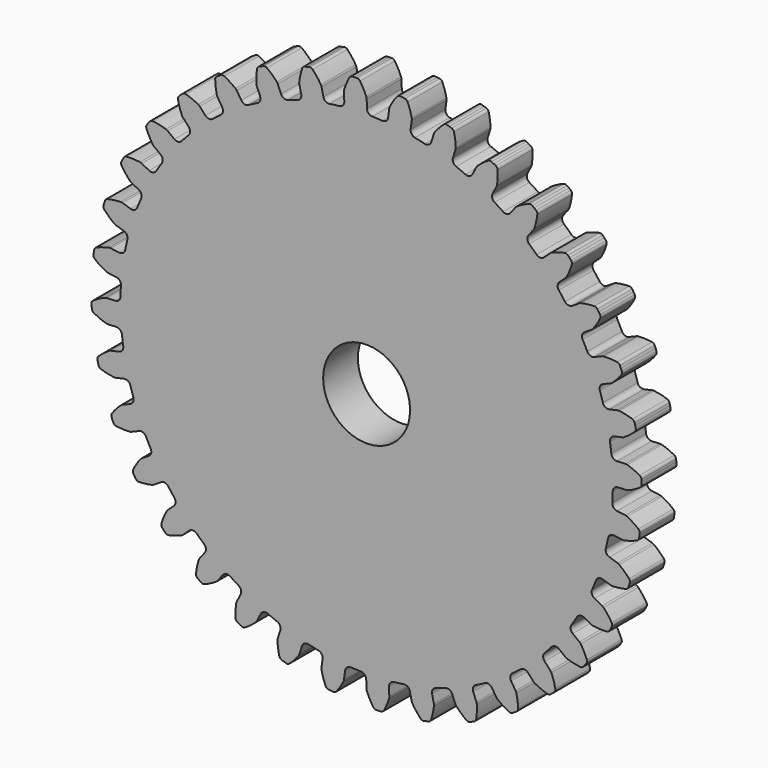
from build123d import *

# Parameters (mm, degrees)
F0_R     = 35.983333
F1_DEPTH = 6.35
F3_DEPTH = 6.35
F5_D     = 12.7


with BuildPart() as f1:
    # F0 (on Front) → F1 (new body)
    with BuildSketch(Plane.XZ):
        Circle(F0_R)
    extrude(amount=F1_DEPTH)

    # F2 (on face) → F3 (join)
    with BuildSketch(Plane.XZ.offset(6.35)):
        with BuildLine():
            ThreePointArc((0.005729, 37.968786), (-0.011248, 38.100575), (-0.050143, 38.227633))
            ThreePointArc((-0.050143, 38.227633), (-0.46345, 39.121158), (-0.966779, 39.967249))
            ThreePointArc((-0.966779, 39.967249), (-1.156041, 40.136562), (-1.403606, 40.193113))
            Line((-1.403606, 40.193113), (-1.75444, 40.183272))
            Line((-1.75444, 40.183272), (-2.104795, 40.162499))
            ThreePointArc((-2.104795, 40.162499), (-2.34649, 40.084585), (-2.520275, 39.899422))
            ThreePointArc((-2.520275, 39.899422), (-2.947947, 39.012682), (-3.281805, 38.086535))
            ThreePointArc((-3.281805, 38.086535), (-3.309479, 37.956571), (-3.314905, 37.823804))
            Line((-3.314905, 37.823804), (-3.260672, 36.581658))
            ThreePointArc((-3.260672, 36.581658), (-3.449386, 36.034993), (-3.960654, 35.764696))
            Line((-3.960654, 35.764696), (-5.430887, 35.571136))
            ThreePointArc((-5.430887, 35.571136), (-5.994692, 35.699897), (-6.318463, 36.179092))
            Line((-6.318463, 36.179092), (-6.587569, 37.39295))
            ThreePointArc((-6.587569, 37.39295), (-6.627172, 37.519788), (-6.68754, 37.638162))
            ThreePointArc((-6.68754, 37.638162), (-7.249727, 38.446342), (-7.892331, 39.192177))
            ThreePointArc((-7.892331, 39.192177), (-8.108119, 39.326053), (-8.361743, 39.338756))
            Line((-8.361743, 39.338756), (-8.705538, 39.268142))
            Line((-8.705538, 39.268142), (-9.046964, 39.186846))
            ThreePointArc((-9.046964, 39.186846), (-9.271457, 39.068147), (-9.410449, 38.855619))
            ThreePointArc((-9.410449, 38.855619), (-9.677642, 37.908086), (-9.845605, 36.938036))
            ThreePointArc((-9.845605, 36.938036), (-9.85029, 36.80524), (-9.832579, 36.673548))
            Line((-9.832579, 36.673548), (-9.563473, 35.459691))
            ThreePointArc((-9.563473, 35.459691), (-9.654393, 34.888561), (-10.110957, 34.53359))
            Line((-10.110957, 34.53359), (-11.525242, 34.087667))
            ThreePointArc((-11.525242, 34.087667), (-12.102841, 34.116568), (-12.504905, 34.532261))
            Line((-12.504905, 34.532261), (-12.980706, 35.680947))
            ThreePointArc((-12.980706, 35.680947), (-13.041733, 35.798982), (-13.12174, 35.905074))
            ThreePointArc((-13.12174, 35.905074), (-13.815725, 36.603354), (-14.578079, 37.226271))
            ThreePointArc((-14.578079, 37.226271), (-14.813835, 37.320642), (-15.065813, 37.28911))
            Line((-15.065813, 37.28911), (-15.392122, 37.15987))
            Line((-15.392122, 37.15987), (-15.714244, 37.020521))
            ThreePointArc((-15.714244, 37.020521), (-15.914715, 36.864642), (-16.01469, 36.631207))
            ThreePointArc((-16.01469, 36.631207), (-16.113287, 35.651673), (-16.11025, 34.667193))
            ThreePointArc((-16.11025, 34.667193), (-16.091805, 34.535601), (-16.051494, 34.408985))
            Line((-16.051494, 34.408985), (-15.575693, 33.260299))
            ThreePointArc((-15.575693, 33.260299), (-15.566056, 32.682058), (-15.954044, 32.253198))
            Line((-15.954044, 32.253198), (-17.269409, 31.568462))
            ThreePointArc((-17.269409, 31.568462), (-17.843252, 31.496625), (-18.311391, 31.836184))
            Line((-18.311391, 31.836184), (-18.979432, 32.884798))
            ThreePointArc((-18.979432, 32.884798), (-19.060028, 32.990442), (-19.157242, 33.081029))
            ThreePointArc((-19.157242, 33.081029), (-19.961939, 33.648191), (-20.82088, 34.129263))
            ThreePointArc((-20.82088, 34.129263), (-21.069441, 34.181262), (-21.312115, 34.106454))
            Line((-21.312115, 34.106454), (-21.611025, 33.922514))
            Line((-21.611025, 33.922514), (-21.904056, 33.729346))
            ThreePointArc((-21.904056, 33.729346), (-22.074413, 33.541024), (-22.132333, 33.293775))
            ThreePointArc((-22.132333, 33.293775), (-22.059338, 32.312001), (-21.885394, 31.343004))
            ThreePointArc((-21.885394, 31.343004), (-21.844378, 31.216615), (-21.782694, 31.098923))
            Line((-21.782694, 31.098923), (-21.114653, 30.050309))
            ThreePointArc((-21.114653, 30.050309), (-21.004752, 29.482527), (-21.312375, 28.992809))
            Line((-21.312375, 28.992809), (-22.488854, 28.090064))
            ThreePointArc((-22.488854, 28.090064), (-23.041504, 27.919672), (-23.561495, 28.172781))
            Line((-23.561495, 28.172781), (-24.401477, 29.08946))
            ThreePointArc((-24.401477, 29.08946), (-24.499194, 29.179504), (-24.610661, 29.251834))
            ThreePointArc((-24.610661, 29.251834), (-25.501619, 29.670646), (-26.431048, 29.995255))
            ThreePointArc((-26.431048, 29.995255), (-26.684863, 30.003301), (-26.91086, 29.88749))
            Line((-26.91086, 29.88749), (-27.173288, 29.65444))
            Line((-27.173288, 29.65444), (-27.428323, 29.413322))
            ThreePointArc((-27.428323, 29.413322), (-27.563391, 29.198279), (-27.577497, 28.944729))
            ThreePointArc((-27.577497, 28.944729), (-27.335127, 27.990545), (-26.995562, 27.066475))
            ThreePointArc((-26.995562, 27.066475), (-26.933222, 26.949128), (-26.852037, 26.843935))
            Line((-26.852037, 26.843935), (-26.012056, 25.927256))
            ThreePointArc((-26.012056, 25.927256), (-25.80523, 25.387184), (-26.02314, 24.851488))
            Line((-26.02314, 24.851488), (-27.024986, 23.758165))
            ThreePointArc((-27.024986, 23.758165), (-27.539652, 23.494394), (-28.095695, 23.653363))
            Line((-28.095695, 23.653363), (-29.082095, 24.410254))
            ThreePointArc((-29.082095, 24.410254), (-29.193964, 24.481961), (-29.316297, 24.533837))
            ThreePointArc((-29.316297, 24.533837), (-30.266446, 24.791572), (-31.238122, 24.949857))
            ThreePointArc((-31.238122, 24.949857), (-31.489479, 24.913706), (-31.691932, 24.76041))
            Line((-31.691932, 24.76041), (-31.909904, 24.48533))
            Line((-31.909904, 24.48533), (-32.119195, 24.20359))
            ThreePointArc((-32.119195, 24.20359), (-32.214869, 23.968359), (-32.184732, 23.716211))
            ThreePointArc((-32.184732, 23.716211), (-31.780352, 22.81861), (-31.285482, 21.967544))
            ThreePointArc((-31.285482, 21.967544), (-31.203712, 21.862806), (-31.105495, 21.773308))
            Line((-31.105495, 21.773308), (-30.119095, 21.016417))
            ThreePointArc((-30.119095, 21.016417), (-29.821629, 20.520464), (-29.943206, 19.955067))
            Line((-29.943206, 19.955067), (-30.739978, 18.704385))
            ThreePointArc((-30.739978, 18.704385), (-31.201021, 18.355251), (-31.776222, 18.415249))
            Line((-31.776222, 18.415249), (-32.879069, 18.989354))
            ThreePointArc((-32.879069, 18.989354), (-33.00169, 19.040547), (-33.131173, 19.070391))
            ThreePointArc((-33.131173, 19.070391), (-34.111642, 19.159219), (-35.096042, 19.146369))
            ThreePointArc((-35.096042, 19.146369), (-35.337302, 19.06712), (-35.51006, 18.880998))
            Line((-35.51006, 18.880998), (-35.676954, 18.572247))
            Line((-35.676954, 18.572247), (-35.834142, 18.258443))
            ThreePointArc((-35.834142, 18.258443), (-35.887514, 18.010173), (-35.814051, 17.767089))
            ThreePointArc((-35.814051, 17.767089), (-35.259948, 16.953344), (-34.62481, 16.201141))
            ThreePointArc((-34.62481, 16.201141), (-34.526094, 16.112193), (-34.413828, 16.04111))
            Line((-34.413828, 16.04111), (-33.310981, 15.467005))
            ThreePointArc((-33.310981, 15.467005), (-32.931912, 15.030241), (-32.953462, 14.452321))
            Line((-32.953462, 14.452321), (-33.520951, 13.082282))
            ThreePointArc((-33.520951, 13.082282), (-33.914364, 12.658393), (-34.491244, 12.617597))
            Line((-34.491244, 12.617597), (-35.677029, 12.991473))
            ThreePointArc((-35.677029, 12.991473), (-35.806676, 13.020595), (-35.939374, 13.027501))
            ThreePointArc((-35.939374, 13.027501), (-36.920373, 12.944723), (-37.887587, 12.761129))
            ThreePointArc((-37.887587, 12.761129), (-38.11142, 12.64119), (-38.249233, 12.427896))
            Line((-38.249233, 12.427896), (-38.359977, 12.094854))
            Line((-38.359977, 12.094854), (-38.460286, 11.758523))
            ThreePointArc((-38.460286, 11.758523), (-38.469736, 11.504756), (-38.355177, 11.278122))
            ThreePointArc((-38.355177, 11.278122), (-37.668187, 10.572959), (-36.91208, 9.942474))
            ThreePointArc((-36.91208, 9.942474), (-36.799418, 9.872019), (-36.676514, 9.821511))
            Line((-36.676514, 9.821511), (-35.490729, 9.447635))
            ThreePointArc((-35.490729, 9.447635), (-35.041576, 9.083331), (-34.962445, 8.510449))
            Line((-34.962445, 8.510449), (-35.283407, 7.062681))
            ThreePointArc((-35.283407, 7.062681), (-35.597235, 6.576916), (-36.158267, 6.436565))
            Line((-36.158267, 6.436565), (-37.39096, 6.598852))
            ThreePointArc((-37.39096, 6.598852), (-37.523695, 6.605019), (-37.655576, 6.588777))
            ThreePointArc((-37.655576, 6.588777), (-38.607297, 6.336908), (-39.527936, 5.988149))
            ThreePointArc((-39.527936, 5.988149), (-39.727541, 5.831163), (-39.826223, 5.597179))
            Line((-39.826223, 5.597179), (-39.877453, 5.249966))
            Line((-39.877453, 5.249966), (-39.917834, 4.901326))
            ThreePointArc((-39.917834, 4.901326), (-39.883074, 4.649773), (-39.730901, 4.446475))
            ThreePointArc((-39.730901, 4.446475), (-38.931898, 3.87132), (-38.077795, 3.38171))
            ThreePointArc((-38.077795, 3.38171), (-37.95461, 3.331889), (-37.824803, 3.303491))
            Line((-37.824803, 3.303491), (-36.59211, 3.141204))
            ThreePointArc((-36.59211, 3.141204), (-36.08652, 2.860429), (-35.90911, 2.309992))
            Line((-35.90911, 2.309992), (-35.973795, 0.828484))
            ThreePointArc((-35.973795, 0.828484), (-36.198503, 0.295603), (-36.72664, 0.059962))
            Line((-36.72664, 0.059962), (-37.968786, 0.005729))
            ThreePointArc((-37.968786, 0.005729), (-38.100575, -0.011248), (-38.227633, -0.050143))
            ThreePointArc((-38.227633, -0.050143), (-39.121158, -0.46345), (-39.967249, -0.966779))
            ThreePointArc((-39.967249, -0.966779), (-40.136562, -1.156041), (-40.193113, -1.403606))
            Line((-40.193113, -1.403606), (-40.183272, -1.75444))
            Line((-40.183272, -1.75444), (-40.162499, -2.104795))
            ThreePointArc((-40.162499, -2.104795), (-40.084585, -2.34649), (-39.899422, -2.520275))
            ThreePointArc((-39.899422, -2.520275), (-39.012682, -2.947947), (-38.086535, -3.281805))
            ThreePointArc((-38.086535, -3.281805), (-37.956571, -3.309479), (-37.823804, -3.314905))
            Line((-37.823804, -3.314905), (-36.581658, -3.260672))
            ThreePointArc((-36.581658, -3.260672), (-36.034993, -3.449386), (-35.764696, -3.960654))
            Line((-35.764696, -3.960654), (-35.571136, -5.430887))
            ThreePointArc((-35.571136, -5.430887), (-35.699897, -5.994692), (-36.179092, -6.318463))
            Line((-36.179092, -6.318463), (-37.39295, -6.587569))
            ThreePointArc((-37.39295, -6.587569), (-37.519788, -6.627172), (-37.638162, -6.68754))
            ThreePointArc((-37.638162, -6.68754), (-38.446342, -7.249727), (-39.192177, -7.892331))
            ThreePointArc((-39.192177, -7.892331), (-39.326053, -8.108119), (-39.338756, -8.361743))
            Line((-39.338756, -8.361743), (-39.268142, -8.705538))
            Line((-39.268142, -8.705538), (-39.186846, -9.046964))
            ThreePointArc((-39.186846, -9.046964), (-39.068147, -9.271457), (-38.855619, -9.410449))
            ThreePointArc((-38.855619, -9.410449), (-37.908086, -9.677642), (-36.938036, -9.845605))
            ThreePointArc((-36.938036, -9.845605), (-36.80524, -9.85029), (-36.673548, -9.832579))
            Line((-36.673548, -9.832579), (-35.459691, -9.563473))
            ThreePointArc((-35.459691, -9.563473), (-34.888561, -9.654393), (-34.53359, -10.110957))
            Line((-34.53359, -10.110957), (-34.087667, -11.525242))
            ThreePointArc((-34.087667, -11.525242), (-34.116568, -12.102841), (-34.532261, -12.504905))
            Line((-34.532261, -12.504905), (-35.680947, -12.980706))
            ThreePointArc((-35.680947, -12.980706), (-35.798982, -13.041733), (-35.905074, -13.12174))
            ThreePointArc((-35.905074, -13.12174), (-36.603354, -13.815725), (-37.226271, -14.578079))
            ThreePointArc((-37.226271, -14.578079), (-37.320642, -14.813835), (-37.28911, -15.065813))
            Line((-37.28911, -15.065813), (-37.15987, -15.392122))
            Line((-37.15987, -15.392122), (-37.020521, -15.714244))
            ThreePointArc((-37.020521, -15.714244), (-36.864642, -15.914715), (-36.631207, -16.01469))
            ThreePointArc((-36.631207, -16.01469), (-35.651673, -16.113287), (-34.667193, -16.11025))
            ThreePointArc((-34.667193, -16.11025), (-34.535601, -16.091805), (-34.408985, -16.051494))
            Line((-34.408985, -16.051494), (-33.260299, -15.575693))
            ThreePointArc((-33.260299, -15.575693), (-32.682058, -15.566056), (-32.253198, -15.954044))
            Line((-32.253198, -15.954044), (-31.568462, -17.269409))
            ThreePointArc((-31.568462, -17.269409), (-31.496625, -17.843252), (-31.836184, -18.311391))
            Line((-31.836184, -18.311391), (-32.884798, -18.979432))
            ThreePointArc((-32.884798, -18.979432), (-32.990442, -19.060028), (-33.081029, -19.157242))
            ThreePointArc((-33.081029, -19.157242), (-33.648191, -19.961939), (-34.129263, -20.82088))
            ThreePointArc((-34.129263, -20.82088), (-34.181262, -21.069441), (-34.106454, -21.312115))
            Line((-34.106454, -21.312115), (-33.922514, -21.611025))
            Line((-33.922514, -21.611025), (-33.729346, -21.904056))
            ThreePointArc((-33.729346, -21.904056), (-33.541024, -22.074413), (-33.293775, -22.132333))
            ThreePointArc((-33.293775, -22.132333), (-32.312001, -22.059338), (-31.343004, -21.885394))
            ThreePointArc((-31.343004, -21.885394), (-31.216615, -21.844378), (-31.098923, -21.782694))
            Line((-31.098923, -21.782694), (-30.050309, -21.114653))
            ThreePointArc((-30.050309, -21.114653), (-29.482527, -21.004752), (-28.992809, -21.312375))
            Line((-28.992809, -21.312375), (-28.090064, -22.488854))
            ThreePointArc((-28.090064, -22.488854), (-27.919672, -23.041504), (-28.172781, -23.561495))
            Line((-28.172781, -23.561495), (-29.08946, -24.401477))
            ThreePointArc((-29.08946, -24.401477), (-29.179504, -24.499194), (-29.251834, -24.610661))
            ThreePointArc((-29.251834, -24.610661), (-29.670646, -25.501619), (-29.995255, -26.431048))
            ThreePointArc((-29.995255, -26.431048), (-30.003301, -26.684863), (-29.88749, -26.91086))
            Line((-29.88749, -26.91086), (-29.65444, -27.173288))
            Line((-29.65444, -27.173288), (-29.413322, -27.428323))
            ThreePointArc((-29.413322, -27.428323), (-29.198279, -27.563391), (-28.944729, -27.577497))
            ThreePointArc((-28.944729, -27.577497), (-27.990545, -27.335127), (-27.066475, -26.995562))
            ThreePointArc((-27.066475, -26.995562), (-26.949128, -26.933222), (-26.843935, -26.852037))
            Line((-26.843935, -26.852037), (-25.927256, -26.012056))
            ThreePointArc((-25.927256, -26.012056), (-25.387184, -25.80523), (-24.851488, -26.02314))
            Line((-24.851488, -26.02314), (-23.758165, -27.024986))
            ThreePointArc((-23.758165, -27.024986), (-23.494394, -27.539652), (-23.653363, -28.095695))
            Line((-23.653363, -28.095695), (-24.410254, -29.082095))
            ThreePointArc((-24.410254, -29.082095), (-24.481961, -29.193964), (-24.533837, -29.316297))
            ThreePointArc((-24.533837, -29.316297), (-24.791572, -30.266446), (-24.949857, -31.238122))
            ThreePointArc((-24.949857, -31.238122), (-24.913706, -31.489479), (-24.76041, -31.691932))
            Line((-24.76041, -31.691932), (-24.48533, -31.909904))
            Line((-24.48533, -31.909904), (-24.20359, -32.119195))
            ThreePointArc((-24.20359, -32.119195), (-23.968359, -32.214869), (-23.716211, -32.184732))
            ThreePointArc((-23.716211, -32.184732), (-22.81861, -31.780352), (-21.967544, -31.285482))
            ThreePointArc((-21.967544, -31.285482), (-21.862806, -31.203712), (-21.773308, -31.105495))
            Line((-21.773308, -31.105495), (-21.016417, -30.119095))
            ThreePointArc((-21.016417, -30.119095), (-20.520464, -29.821629), (-19.955067, -29.943206))
            Line((-19.955067, -29.943206), (-18.704385, -30.739978))
            ThreePointArc((-18.704385, -30.739978), (-18.355251, -31.201021), (-18.415249, -31.776222))
            Line((-18.415249, -31.776222), (-18.989354, -32.879069))
            ThreePointArc((-18.989354, -32.879069), (-19.040547, -33.00169), (-19.070391, -33.131173))
            ThreePointArc((-19.070391, -33.131173), (-19.159219, -34.111642), (-19.146369, -35.096042))
            ThreePointArc((-19.146369, -35.096042), (-19.06712, -35.337302), (-18.880998, -35.51006))
            Line((-18.880998, -35.51006), (-18.572247, -35.676954))
            Line((-18.572247, -35.676954), (-18.258443, -35.834142))
            ThreePointArc((-18.258443, -35.834142), (-18.010173, -35.887514), (-17.767089, -35.814051))
            ThreePointArc((-17.767089, -35.814051), (-16.953344, -35.259948), (-16.201141, -34.62481))
            ThreePointArc((-16.201141, -34.62481), (-16.112193, -34.526094), (-16.04111, -34.413828))
            Line((-16.04111, -34.413828), (-15.467005, -33.310981))
            ThreePointArc((-15.467005, -33.310981), (-15.030241, -32.931912), (-14.452321, -32.953462))
            Line((-14.452321, -32.953462), (-13.082282, -33.520951))
            ThreePointArc((-13.082282, -33.520951), (-12.658393, -33.914364), (-12.617597, -34.491244))
            Line((-12.617597, -34.491244), (-12.991473, -35.677029))
            ThreePointArc((-12.991473, -35.677029), (-13.020595, -35.806676), (-13.027501, -35.939374))
            ThreePointArc((-13.027501, -35.939374), (-12.944723, -36.920373), (-12.761129, -37.887587))
            ThreePointArc((-12.761129, -37.887587), (-12.64119, -38.11142), (-12.427896, -38.249233))
            Line((-12.427896, -38.249233), (-12.094854, -38.359977))
            Line((-12.094854, -38.359977), (-11.758523, -38.460286))
            ThreePointArc((-11.758523, -38.460286), (-11.504756, -38.469736), (-11.278122, -38.355177))
            ThreePointArc((-11.278122, -38.355177), (-10.572959, -37.668187), (-9.942474, -36.91208))
            ThreePointArc((-9.942474, -36.91208), (-9.872019, -36.799418), (-9.821511, -36.676514))
            Line((-9.821511, -36.676514), (-9.447635, -35.490729))
            ThreePointArc((-9.447635, -35.490729), (-9.083331, -35.041576), (-8.510449, -34.962445))
            Line((-8.510449, -34.962445), (-7.062681, -35.283407))
            ThreePointArc((-7.062681, -35.283407), (-6.576916, -35.597235), (-6.436565, -36.158267))
            Line((-6.436565, -36.158267), (-6.598852, -37.39096))
            ThreePointArc((-6.598852, -37.39096), (-6.605019, -37.523695), (-6.588777, -37.655576))
            ThreePointArc((-6.588777, -37.655576), (-6.336908, -38.607297), (-5.988149, -39.527936))
            ThreePointArc((-5.988149, -39.527936), (-5.831163, -39.727541), (-5.597179, -39.826223))
            Line((-5.597179, -39.826223), (-5.249966, -39.877453))
            Line((-5.249966, -39.877453), (-4.901326, -39.917834))
            ThreePointArc((-4.901326, -39.917834), (-4.649773, -39.883074), (-4.446475, -39.730901))
            ThreePointArc((-4.446475, -39.730901), (-3.87132, -38.931898), (-3.38171, -38.077795))
            ThreePointArc((-3.38171, -38.077795), (-3.331889, -37.95461), (-3.303491, -37.824803))
            Line((-3.303491, -37.824803), (-3.141204, -36.59211))
            ThreePointArc((-3.141204, -36.59211), (-2.860429, -36.08652), (-2.309992, -35.90911))
            Line((-2.309992, -35.90911), (-0.828484, -35.973795))
            ThreePointArc((-0.828484, -35.973795), (-0.295603, -36.198503), (-0.059962, -36.72664))
            Line((-0.059962, -36.72664), (-0.005729, -37.968786))
            ThreePointArc((-0.005729, -37.968786), (0.011248, -38.100575), (0.050143, -38.227633))
            ThreePointArc((0.050143, -38.227633), (0.46345, -39.121158), (0.966779, -39.967249))
            ThreePointArc((0.966779, -39.967249), (1.156041, -40.136562), (1.403606, -40.193113))
            Line((1.403606, -40.193113), (1.75444, -40.183272))
            Line((1.75444, -40.183272), (2.104795, -40.162499))
            ThreePointArc((2.104795, -40.162499), (2.34649, -40.084585), (2.520275, -39.899422))
            ThreePointArc((2.520275, -39.899422), (2.947947, -39.012682), (3.281805, -38.086535))
            ThreePointArc((3.281805, -38.086535), (3.309479, -37.956571), (3.314905, -37.823804))
            Line((3.314905, -37.823804), (3.260672, -36.581658))
            ThreePointArc((3.260672, -36.581658), (3.449386, -36.034993), (3.960654, -35.764696))
            Line((3.960654, -35.764696), (5.430887, -35.571136))
            ThreePointArc((5.430887, -35.571136), (5.994692, -35.699897), (6.318463, -36.179092))
            Line((6.318463, -36.179092), (6.587569, -37.39295))
            ThreePointArc((6.587569, -37.39295), (6.627172, -37.519788), (6.68754, -37.638162))
            ThreePointArc((6.68754, -37.638162), (7.249727, -38.446342), (7.892331, -39.192177))
            ThreePointArc((7.892331, -39.192177), (8.108119, -39.326053), (8.361743, -39.338756))
            Line((8.361743, -39.338756), (8.705538, -39.268142))
            Line((8.705538, -39.268142), (9.046964, -39.186846))
            ThreePointArc((9.046964, -39.186846), (9.271457, -39.068147), (9.410449, -38.855619))
            ThreePointArc((9.410449, -38.855619), (9.677642, -37.908086), (9.845605, -36.938036))
            ThreePointArc((9.845605, -36.938036), (9.85029, -36.80524), (9.832579, -36.673548))
            Line((9.832579, -36.673548), (9.563473, -35.459691))
            ThreePointArc((9.563473, -35.459691), (9.654393, -34.888561), (10.110957, -34.53359))
            Line((10.110957, -34.53359), (11.525242, -34.087667))
            ThreePointArc((11.525242, -34.087667), (12.102841, -34.116568), (12.504905, -34.532261))
            Line((12.504905, -34.532261), (12.980706, -35.680947))
            ThreePointArc((12.980706, -35.680947), (13.041733, -35.798982), (13.12174, -35.905074))
            ThreePointArc((13.12174, -35.905074), (13.815725, -36.603354), (14.578079, -37.226271))
            ThreePointArc((14.578079, -37.226271), (14.813835, -37.320642), (15.065813, -37.28911))
            Line((15.065813, -37.28911), (15.392122, -37.15987))
            Line((15.392122, -37.15987), (15.714244, -37.020521))
            ThreePointArc((15.714244, -37.020521), (15.914715, -36.864642), (16.01469, -36.631207))
            ThreePointArc((16.01469, -36.631207), (16.113287, -35.651673), (16.11025, -34.667193))
            ThreePointArc((16.11025, -34.667193), (16.091805, -34.535601), (16.051494, -34.408985))
            Line((16.051494, -34.408985), (15.575693, -33.260299))
            ThreePointArc((15.575693, -33.260299), (15.566056, -32.682058), (15.954044, -32.253198))
            Line((15.954044, -32.253198), (17.269409, -31.568462))
            ThreePointArc((17.269409, -31.568462), (17.843252, -31.496625), (18.311391, -31.836184))
            Line((18.311391, -31.836184), (18.979432, -32.884798))
            ThreePointArc((18.979432, -32.884798), (19.060028, -32.990442), (19.157242, -33.081029))
            ThreePointArc((19.157242, -33.081029), (19.961939, -33.648191), (20.82088, -34.129263))
            ThreePointArc((20.82088, -34.129263), (21.069441, -34.181262), (21.312115, -34.106454))
            Line((21.312115, -34.106454), (21.611025, -33.922514))
            Line((21.611025, -33.922514), (21.904056, -33.729346))
            ThreePointArc((21.904056, -33.729346), (22.074413, -33.541024), (22.132333, -33.293775))
            ThreePointArc((22.132333, -33.293775), (22.059338, -32.312001), (21.885394, -31.343004))
            ThreePointArc((21.885394, -31.343004), (21.844378, -31.216615), (21.782694, -31.098923))
            Line((21.782694, -31.098923), (21.114653, -30.050309))
            ThreePointArc((21.114653, -30.050309), (21.004752, -29.482527), (21.312375, -28.992809))
            Line((21.312375, -28.992809), (22.488854, -28.090064))
            ThreePointArc((22.488854, -28.090064), (23.041504, -27.919672), (23.561495, -28.172781))
            Line((23.561495, -28.172781), (24.401477, -29.08946))
            ThreePointArc((24.401477, -29.08946), (24.499194, -29.179504), (24.610661, -29.251834))
            ThreePointArc((24.610661, -29.251834), (25.501619, -29.670646), (26.431048, -29.995255))
            ThreePointArc((26.431048, -29.995255), (26.684863, -30.003301), (26.91086, -29.88749))
            Line((26.91086, -29.88749), (27.173288, -29.65444))
            Line((27.173288, -29.65444), (27.428323, -29.413322))
            ThreePointArc((27.428323, -29.413322), (27.563391, -29.198279), (27.577497, -28.944729))
            ThreePointArc((27.577497, -28.944729), (27.335127, -27.990545), (26.995562, -27.066475))
            ThreePointArc((26.995562, -27.066475), (26.933222, -26.949128), (26.852037, -26.843935))
            Line((26.852037, -26.843935), (26.012056, -25.927256))
            ThreePointArc((26.012056, -25.927256), (25.80523, -25.387184), (26.02314, -24.851488))
            Line((26.02314, -24.851488), (27.024986, -23.758165))
            ThreePointArc((27.024986, -23.758165), (27.539652, -23.494394), (28.095695, -23.653363))
            Line((28.095695, -23.653363), (29.082095, -24.410254))
            ThreePointArc((29.082095, -24.410254), (29.193964, -24.481961), (29.316297, -24.533837))
            ThreePointArc((29.316297, -24.533837), (30.266446, -24.791572), (31.238122, -24.949857))
            ThreePointArc((31.238122, -24.949857), (31.489479, -24.913706), (31.691932, -24.76041))
            Line((31.691932, -24.76041), (31.909904, -24.48533))
            Line((31.909904, -24.48533), (32.119195, -24.20359))
            ThreePointArc((32.119195, -24.20359), (32.214869, -23.968359), (32.184732, -23.716211))
            ThreePointArc((32.184732, -23.716211), (31.780352, -22.81861), (31.285482, -21.967544))
            ThreePointArc((31.285482, -21.967544), (31.203712, -21.862806), (31.105495, -21.773308))
            Line((31.105495, -21.773308), (30.119095, -21.016417))
            ThreePointArc((30.119095, -21.016417), (29.821629, -20.520464), (29.943206, -19.955067))
            Line((29.943206, -19.955067), (30.739978, -18.704385))
            ThreePointArc((30.739978, -18.704385), (31.201021, -18.355251), (31.776222, -18.415249))
            Line((31.776222, -18.415249), (32.879069, -18.989354))
            ThreePointArc((32.879069, -18.989354), (33.00169, -19.040547), (33.131173, -19.070391))
            ThreePointArc((33.131173, -19.070391), (34.111642, -19.159219), (35.096042, -19.146369))
            ThreePointArc((35.096042, -19.146369), (35.337302, -19.06712), (35.51006, -18.880998))
            Line((35.51006, -18.880998), (35.676954, -18.572247))
            Line((35.676954, -18.572247), (35.834142, -18.258443))
            ThreePointArc((35.834142, -18.258443), (35.887514, -18.010173), (35.814051, -17.767089))
            ThreePointArc((35.814051, -17.767089), (35.259948, -16.953344), (34.62481, -16.201141))
            ThreePointArc((34.62481, -16.201141), (34.526094, -16.112193), (34.413828, -16.04111))
            Line((34.413828, -16.04111), (33.310981, -15.467005))
            ThreePointArc((33.310981, -15.467005), (32.931912, -15.030241), (32.953462, -14.452321))
            Line((32.953462, -14.452321), (33.520951, -13.082282))
            ThreePointArc((33.520951, -13.082282), (33.914364, -12.658393), (34.491244, -12.617597))
            Line((34.491244, -12.617597), (35.677029, -12.991473))
            ThreePointArc((35.677029, -12.991473), (35.806676, -13.020595), (35.939374, -13.027501))
            ThreePointArc((35.939374, -13.027501), (36.920373, -12.944723), (37.887587, -12.761129))
            ThreePointArc((37.887587, -12.761129), (38.11142, -12.64119), (38.249233, -12.427896))
            Line((38.249233, -12.427896), (38.359977, -12.094854))
            Line((38.359977, -12.094854), (38.460286, -11.758523))
            ThreePointArc((38.460286, -11.758523), (38.469736, -11.504756), (38.355177, -11.278122))
            ThreePointArc((38.355177, -11.278122), (37.668187, -10.572959), (36.91208, -9.942474))
            ThreePointArc((36.91208, -9.942474), (36.799418, -9.872019), (36.676514, -9.821511))
            Line((36.676514, -9.821511), (35.490729, -9.447635))
            ThreePointArc((35.490729, -9.447635), (35.041576, -9.083331), (34.962445, -8.510449))
            Line((34.962445, -8.510449), (35.283407, -7.062681))
            ThreePointArc((35.283407, -7.062681), (35.597235, -6.576916), (36.158267, -6.436565))
            Line((36.158267, -6.436565), (37.39096, -6.598852))
            ThreePointArc((37.39096, -6.598852), (37.523695, -6.605019), (37.655576, -6.588777))
            ThreePointArc((37.655576, -6.588777), (38.607297, -6.336908), (39.527936, -5.988149))
            ThreePointArc((39.527936, -5.988149), (39.727541, -5.831163), (39.826223, -5.597179))
            Line((39.826223, -5.597179), (39.877453, -5.249966))
            Line((39.877453, -5.249966), (39.917834, -4.901326))
            ThreePointArc((39.917834, -4.901326), (39.883074, -4.649773), (39.730901, -4.446475))
            ThreePointArc((39.730901, -4.446475), (38.931898, -3.87132), (38.077795, -3.38171))
            ThreePointArc((38.077795, -3.38171), (37.95461, -3.331889), (37.824803, -3.303491))
            Line((37.824803, -3.303491), (36.59211, -3.141204))
            ThreePointArc((36.59211, -3.141204), (36.08652, -2.860429), (35.90911, -2.309992))
            Line((35.90911, -2.309992), (35.973795, -0.828484))
            ThreePointArc((35.973795, -0.828484), (36.198503, -0.295603), (36.72664, -0.059962))
            Line((36.72664, -0.059962), (37.968786, -0.005729))
            ThreePointArc((37.968786, -0.005729), (38.100575, 0.011248), (38.227633, 0.050143))
            ThreePointArc((38.227633, 0.050143), (39.121158, 0.46345), (39.967249, 0.966779))
            ThreePointArc((39.967249, 0.966779), (40.136562, 1.156041), (40.193113, 1.403606))
            Line((40.193113, 1.403606), (40.183272, 1.75444))
            Line((40.183272, 1.75444), (40.162499, 2.104795))
            ThreePointArc((40.162499, 2.104795), (40.084585, 2.34649), (39.899422, 2.520275))
            ThreePointArc((39.899422, 2.520275), (39.012682, 2.947947), (38.086535, 3.281805))
            ThreePointArc((38.086535, 3.281805), (37.956571, 3.309479), (37.823804, 3.314905))
            Line((37.823804, 3.314905), (36.581658, 3.260672))
            ThreePointArc((36.581658, 3.260672), (36.034993, 3.449386), (35.764696, 3.960654))
            Line((35.764696, 3.960654), (35.571136, 5.430887))
            ThreePointArc((35.571136, 5.430887), (35.699897, 5.994692), (36.179092, 6.318463))
            Line((36.179092, 6.318463), (37.39295, 6.587569))
            ThreePointArc((37.39295, 6.587569), (37.519788, 6.627172), (37.638162, 6.68754))
            ThreePointArc((37.638162, 6.68754), (38.446342, 7.249727), (39.192177, 7.892331))
            ThreePointArc((39.192177, 7.892331), (39.326053, 8.108119), (39.338756, 8.361743))
            Line((39.338756, 8.361743), (39.268142, 8.705538))
            Line((39.268142, 8.705538), (39.186846, 9.046964))
            ThreePointArc((39.186846, 9.046964), (39.068147, 9.271457), (38.855619, 9.410449))
            ThreePointArc((38.855619, 9.410449), (37.908086, 9.677642), (36.938036, 9.845605))
            ThreePointArc((36.938036, 9.845605), (36.80524, 9.85029), (36.673548, 9.832579))
            Line((36.673548, 9.832579), (35.459691, 9.563473))
            ThreePointArc((35.459691, 9.563473), (34.888561, 9.654393), (34.53359, 10.110957))
            Line((34.53359, 10.110957), (34.087667, 11.525242))
            ThreePointArc((34.087667, 11.525242), (34.116568, 12.102841), (34.532261, 12.504905))
            Line((34.532261, 12.504905), (35.680947, 12.980706))
            ThreePointArc((35.680947, 12.980706), (35.798982, 13.041733), (35.905074, 13.12174))
            ThreePointArc((35.905074, 13.12174), (36.603354, 13.815725), (37.226271, 14.578079))
            ThreePointArc((37.226271, 14.578079), (37.320642, 14.813835), (37.28911, 15.065813))
            Line((37.28911, 15.065813), (37.15987, 15.392122))
            Line((37.15987, 15.392122), (37.020521, 15.714244))
            ThreePointArc((37.020521, 15.714244), (36.864642, 15.914715), (36.631207, 16.01469))
            ThreePointArc((36.631207, 16.01469), (35.651673, 16.113287), (34.667193, 16.11025))
            ThreePointArc((34.667193, 16.11025), (34.535601, 16.091805), (34.408985, 16.051494))
            Line((34.408985, 16.051494), (33.260299, 15.575693))
            ThreePointArc((33.260299, 15.575693), (32.682058, 15.566056), (32.253198, 15.954044))
            Line((32.253198, 15.954044), (31.568462, 17.269409))
            ThreePointArc((31.568462, 17.269409), (31.496625, 17.843252), (31.836184, 18.311391))
            Line((31.836184, 18.311391), (32.884798, 18.979432))
            ThreePointArc((32.884798, 18.979432), (32.990442, 19.060028), (33.081029, 19.157242))
            ThreePointArc((33.081029, 19.157242), (33.648191, 19.961939), (34.129263, 20.82088))
            ThreePointArc((34.129263, 20.82088), (34.181262, 21.069441), (34.106454, 21.312115))
            Line((34.106454, 21.312115), (33.922514, 21.611025))
            Line((33.922514, 21.611025), (33.729346, 21.904056))
            ThreePointArc((33.729346, 21.904056), (33.541024, 22.074413), (33.293775, 22.132333))
            ThreePointArc((33.293775, 22.132333), (32.312001, 22.059338), (31.343004, 21.885394))
            ThreePointArc((31.343004, 21.885394), (31.216615, 21.844378), (31.098923, 21.782694))
            Line((31.098923, 21.782694), (30.050309, 21.114653))
            ThreePointArc((30.050309, 21.114653), (29.482527, 21.004752), (28.992809, 21.312375))
            Line((28.992809, 21.312375), (28.090064, 22.488854))
            ThreePointArc((28.090064, 22.488854), (27.919672, 23.041504), (28.172781, 23.561495))
            Line((28.172781, 23.561495), (29.08946, 24.401477))
            ThreePointArc((29.08946, 24.401477), (29.179504, 24.499194), (29.251834, 24.610661))
            ThreePointArc((29.251834, 24.610661), (29.670646, 25.501619), (29.995255, 26.431048))
            ThreePointArc((29.995255, 26.431048), (30.003301, 26.684863), (29.88749, 26.91086))
            Line((29.88749, 26.91086), (29.65444, 27.173288))
            Line((29.65444, 27.173288), (29.413322, 27.428323))
            ThreePointArc((29.413322, 27.428323), (29.198279, 27.563391), (28.944729, 27.577497))
            ThreePointArc((28.944729, 27.577497), (27.990545, 27.335127), (27.066475, 26.995562))
            ThreePointArc((27.066475, 26.995562), (26.949128, 26.933222), (26.843935, 26.852037))
            Line((26.843935, 26.852037), (25.927256, 26.012056))
            ThreePointArc((25.927256, 26.012056), (25.387184, 25.80523), (24.851488, 26.02314))
            Line((24.851488, 26.02314), (23.758165, 27.024986))
            ThreePointArc((23.758165, 27.024986), (23.494394, 27.539652), (23.653363, 28.095695))
            Line((23.653363, 28.095695), (24.410254, 29.082095))
            ThreePointArc((24.410254, 29.082095), (24.481961, 29.193964), (24.533837, 29.316297))
            ThreePointArc((24.533837, 29.316297), (24.791572, 30.266446), (24.949857, 31.238122))
            ThreePointArc((24.949857, 31.238122), (24.913706, 31.489479), (24.76041, 31.691932))
            Line((24.76041, 31.691932), (24.48533, 31.909904))
            Line((24.48533, 31.909904), (24.20359, 32.119195))
            ThreePointArc((24.20359, 32.119195), (23.968359, 32.214869), (23.716211, 32.184732))
            ThreePointArc((23.716211, 32.184732), (22.81861, 31.780352), (21.967544, 31.285482))
            ThreePointArc((21.967544, 31.285482), (21.862806, 31.203712), (21.773308, 31.105495))
            Line((21.773308, 31.105495), (21.016417, 30.119095))
            ThreePointArc((21.016417, 30.119095), (20.520464, 29.821629), (19.955067, 29.943206))
            Line((19.955067, 29.943206), (18.704385, 30.739978))
            ThreePointArc((18.704385, 30.739978), (18.355251, 31.201021), (18.415249, 31.776222))
            Line((18.415249, 31.776222), (18.989354, 32.879069))
            ThreePointArc((18.989354, 32.879069), (19.040547, 33.00169), (19.070391, 33.131173))
            ThreePointArc((19.070391, 33.131173), (19.159219, 34.111642), (19.146369, 35.096042))
            ThreePointArc((19.146369, 35.096042), (19.06712, 35.337302), (18.880998, 35.51006))
            Line((18.880998, 35.51006), (18.572247, 35.676954))
            Line((18.572247, 35.676954), (18.258443, 35.834142))
            ThreePointArc((18.258443, 35.834142), (18.010173, 35.887514), (17.767089, 35.814051))
            ThreePointArc((17.767089, 35.814051), (16.953344, 35.259948), (16.201141, 34.62481))
            ThreePointArc((16.201141, 34.62481), (16.112193, 34.526094), (16.04111, 34.413828))
            Line((16.04111, 34.413828), (15.467005, 33.310981))
            ThreePointArc((15.467005, 33.310981), (15.030241, 32.931912), (14.452321, 32.953462))
            Line((14.452321, 32.953462), (13.082282, 33.520951))
            ThreePointArc((13.082282, 33.520951), (12.658393, 33.914364), (12.617597, 34.491244))
            Line((12.617597, 34.491244), (12.991473, 35.677029))
            ThreePointArc((12.991473, 35.677029), (13.020595, 35.806676), (13.027501, 35.939374))
            ThreePointArc((13.027501, 35.939374), (12.944723, 36.920373), (12.761129, 37.887587))
            ThreePointArc((12.761129, 37.887587), (12.64119, 38.11142), (12.427896, 38.249233))
            Line((12.427896, 38.249233), (12.094854, 38.359977))
            Line((12.094854, 38.359977), (11.758523, 38.460286))
            ThreePointArc((11.758523, 38.460286), (11.504756, 38.469736), (11.278122, 38.355177))
            ThreePointArc((11.278122, 38.355177), (10.572959, 37.668187), (9.942474, 36.91208))
            ThreePointArc((9.942474, 36.91208), (9.872019, 36.799418), (9.821511, 36.676514))
            Line((9.821511, 36.676514), (9.447635, 35.490729))
            ThreePointArc((9.447635, 35.490729), (9.083331, 35.041576), (8.510449, 34.962445))
            Line((8.510449, 34.962445), (7.062681, 35.283407))
            ThreePointArc((7.062681, 35.283407), (6.576916, 35.597235), (6.436565, 36.158267))
            Line((6.436565, 36.158267), (6.598852, 37.39096))
            ThreePointArc((6.598852, 37.39096), (6.605019, 37.523695), (6.588777, 37.655576))
            ThreePointArc((6.588777, 37.655576), (6.336908, 38.607297), (5.988149, 39.527936))
            ThreePointArc((5.988149, 39.527936), (5.831163, 39.727541), (5.597179, 39.826223))
            Line((5.597179, 39.826223), (5.249966, 39.877453))
            Line((5.249966, 39.877453), (4.901326, 39.917834))
            ThreePointArc((4.901326, 39.917834), (4.649773, 39.883074), (4.446475, 39.730901))
            ThreePointArc((4.446475, 39.730901), (3.87132, 38.931898), (3.38171, 38.077795))
            ThreePointArc((3.38171, 38.077795), (3.331889, 37.95461), (3.303491, 37.824803))
            Line((3.303491, 37.824803), (3.141204, 36.59211))
            ThreePointArc((3.141204, 36.59211), (2.860429, 36.08652), (2.309992, 35.90911))
            Line((2.309992, 35.90911), (0.828484, 35.973795))
            ThreePointArc((0.828484, 35.973795), (0.295603, 36.198503), (0.059962, 36.72664))
            Line((0.059962, 36.72664), (0.005729, 37.968786))
        make_face()
    extrude(amount=-F3_DEPTH)

    # F5 (through all)
    with Locations(Plane.XZ.offset(6.35)):
        with Locations((0, 0)):
            Hole(F5_D / 2)


solid = f1.part
